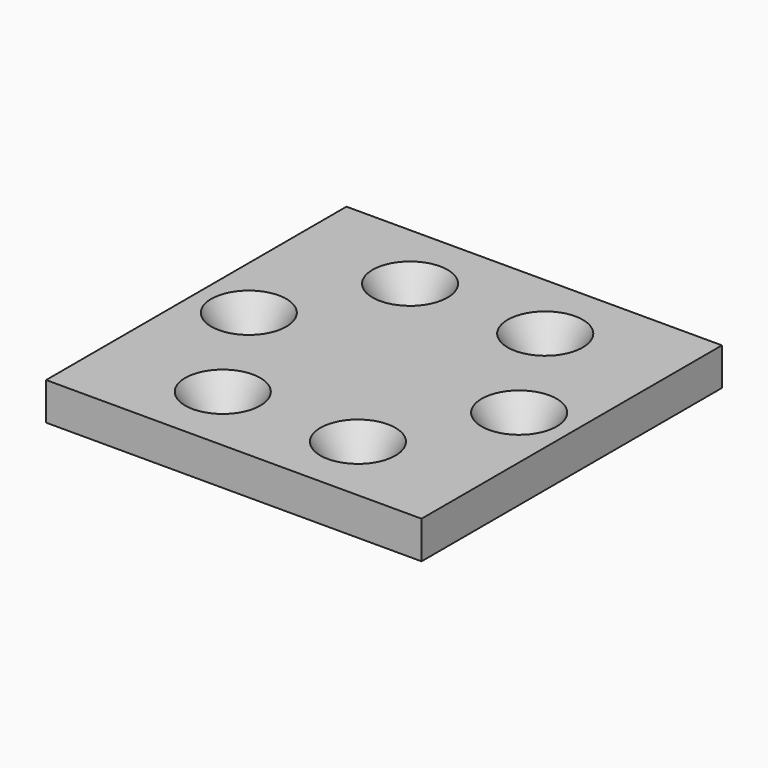
from build123d import *

# Parameters (mm, degrees)
F0_W           = 50
F0_H           = 50
F1_DEPTH       = 5
F3_D           = 5
F3_DEPTH       = 12
F3_CSINK_D     = 10
F3_CSINK_ANGLE = 60


with BuildPart() as f1:
    # F0 (on Top) → F1 (new body)
    with BuildSketch(Plane.XY):
        Rectangle(F0_W, F0_H)
    extrude(amount=F1_DEPTH)

    # F3
    with Locations(Plane.XY.offset(5)):
        with Locations((9, 15.588457), (18, 0), (9, -15.588457), (-9, -15.588457), (-18, 0), (-9, 15.588457)):
            CounterSinkHole(F3_D / 2, F3_CSINK_D / 2, depth=F3_DEPTH, counter_sink_angle=F3_CSINK_ANGLE)


solid = f1.part
